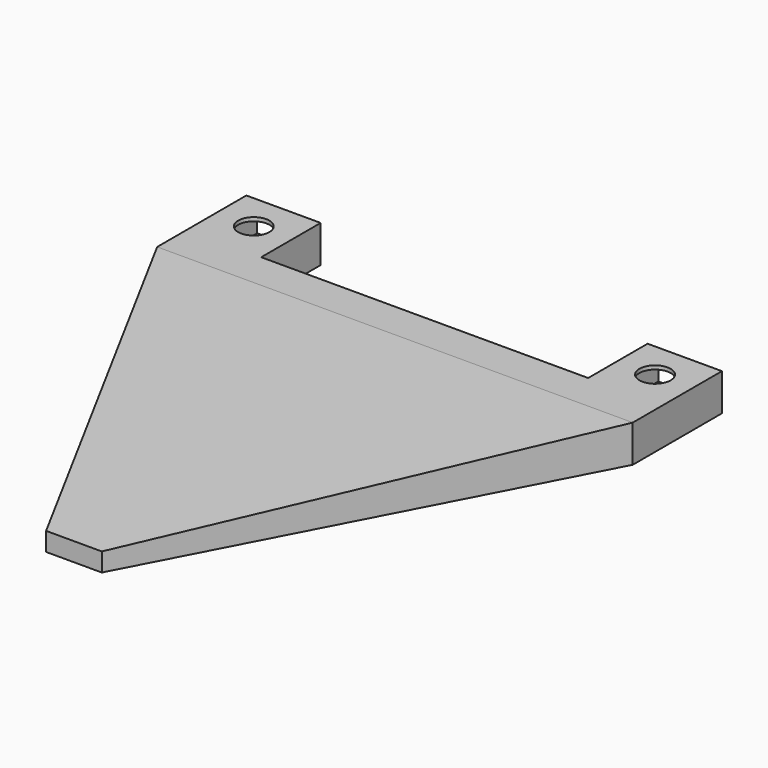
from build123d import *

# Parameters (mm, degrees)
SKETCH002_W  = 128
SKETCH002_H  = 10
SKETCH001_W  = 15
SKETCH001_H  = 5
SKETCH_R     = 4.2
PAD_DEPTH    = 10
SKETCH003_W  = 14.2
SKETCH003_H  = 7
POCKET_DEPTH = 20


with BuildPart() as loft_body:
    # Sketch002 → Loft section 0
    with BuildSketch(Plane.XZ):
        with Locations((0, 5)):
            Rectangle(SKETCH002_W, SKETCH002_H)
    # Sketch001 → Loft section 1
    with BuildSketch(Plane.XZ.offset(108)):
        with Locations((0, 2.5)):
            Rectangle(SKETCH001_W, SKETCH001_H)
    loft()


with BuildPart() as pocket:
    # Sketch → Pad (new body)
    with BuildSketch(Plane.XY):
        Polygon((-64, 30), (-64, 0), (64, 0), (64, 30), (44, 30), (44, 10), (-44, 10), (-44, 30), align=None)
        with Locations((-54, 20)):
            Circle(SKETCH_R, mode=Mode.SUBTRACT)
        with Locations((54, 20)):
            Circle(SKETCH_R, mode=Mode.SUBTRACT)
    extrude(amount=PAD_DEPTH)

    # Fusion: union Loft body
    add(loft_body.part)

    # Sketch003 → Pocket (cut)
    with BuildSketch(Plane(origin=(0, 30, 0), x_dir=(-1, 0, 0), z_dir=(0, 1, 0))):
        with Locations((54, 5.5)):
            Rectangle(SKETCH003_W, SKETCH003_H)
        with Locations((-54, 5.5)):
            Rectangle(SKETCH003_W, SKETCH003_H)
    extrude(amount=-POCKET_DEPTH, mode=Mode.SUBTRACT)


solid = pocket.part
